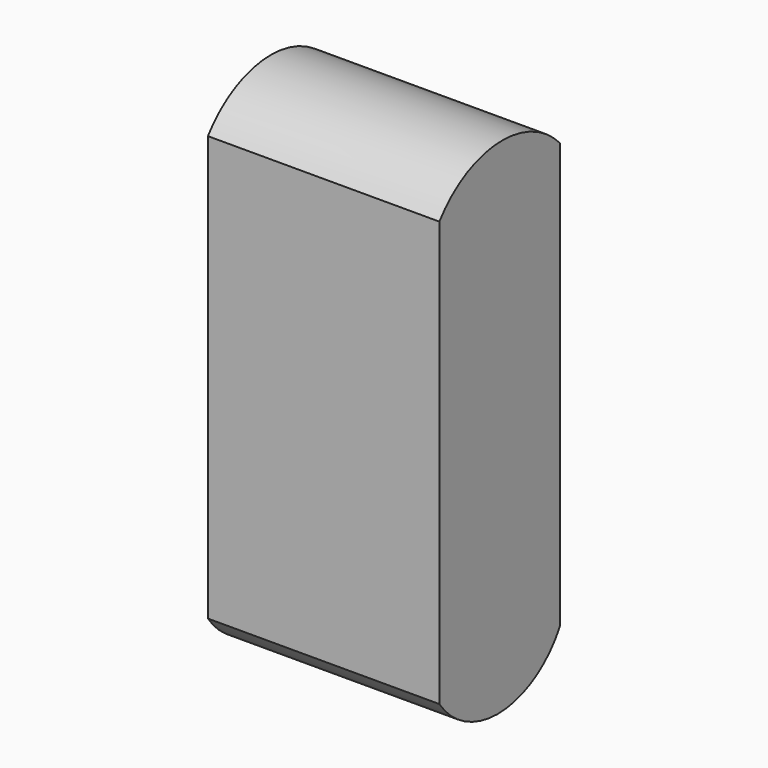
from build123d import *

# Parameters (mm, degrees)
F1_DEPTH = 25.4


with BuildPart() as f1:
    # F0 (on Right) → F1 (new body)
    with BuildSketch(Plane.YZ):
        with BuildLine():
            Line((6.878053, -18.111568), (6.878053, 28.494528))
            ThreePointArc((6.878053, 28.494528), (-1.602144, 31.977817), (-9.685421, 27.65258))
            Line((-9.685421, 27.65258), (-9.685421, -18.949738))
            ThreePointArc((-9.685421, -18.949738), (-1.169752, -23.153507), (6.878053, -18.111568))
        make_face()
    extrude(amount=F1_DEPTH)


solid = f1.part
